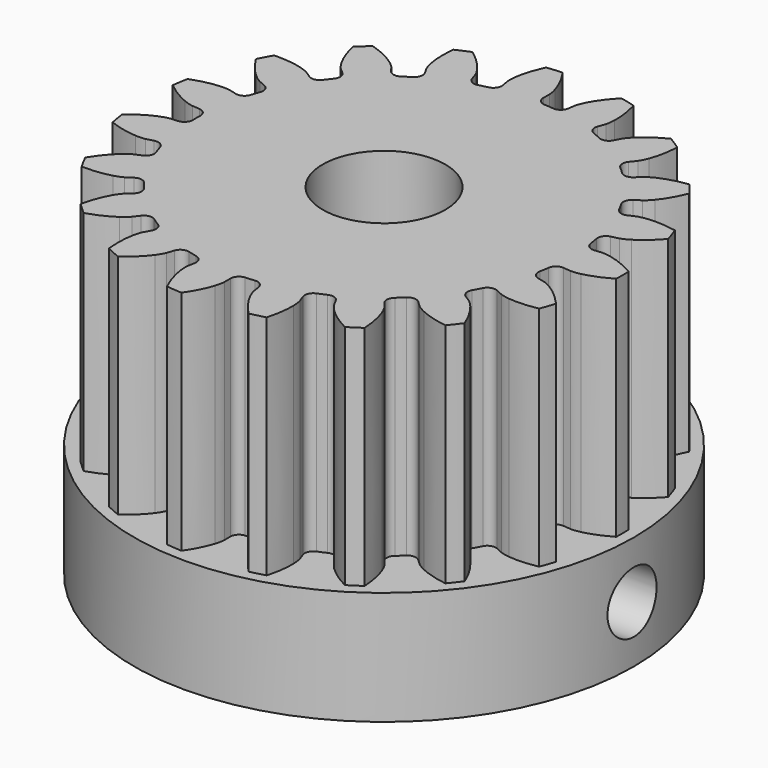
from build123d import *

# Parameters (mm, degrees)
PAD_DEPTH            = 10
SKETCH_R             = 11
PAD001_DEPTH         = 5
SKETCH001_R          = 2.7
POCKET_DEPTH         = 5.001
POCKET_DEPTH_BACK    = 10.001
SKETCH002_R          = 1.35
POCKET001_DEPTH      = 11.001
POCKET001_DEPTH_BACK = 11.001
POCKET002_DEPTH      = 2.2
POCKET003_DEPTH      = 2.2


with BuildPart() as part:
    # InvoluteGear → Pad (new body)
    with BuildSketch(Plane.XY):
        with BuildLine():
            Line((8.575854, -0.83948), (8.902263, -0.870675))
            add(Edge.make_bspline(
                [(8.902263, -0.870675), (8.948723, -0.872301), (9.088539, -0.871419), (9.321927, -0.820597)],
                knots=[0, 0, 0, 0, 1, 1, 1, 1], degree=3))
            add(Edge.make_bspline(
                [(9.321927, -0.820597), (9.601005, -0.758847), (10.002268, -0.626259), (10.495483, -0.343795)],
                knots=[0, 0, 0, 0, 1, 1, 1, 1], degree=3))
            ThreePointArc((10.495483, -0.343795), (10.501113, 0), (10.495483, 0.343795))
            add(Edge.make_bspline(
                [(10.495483, 0.343795), (10.002268, 0.626259), (9.601005, 0.758847), (9.321927, 0.820597)],
                knots=[0, 0, 0, 0, 1, 1, 1, 1], degree=3))
            add(Edge.make_bspline(
                [(9.321927, 0.820597), (9.088539, 0.871419), (8.948723, 0.872301), (8.902263, 0.870675)],
                knots=[0, 0, 0, 0, 1, 1, 1, 1], degree=3))
            Line((8.902263, 0.870675), (8.575854, 0.83948))
            ThreePointArc((8.575854, 0.83948), (8.30774, 0.917746), (8.168093, 1.159634))
            ThreePointArc((8.168093, 1.159634), (8.137481, 1.357905), (8.102056, 1.555373))
            ThreePointArc((8.102056, 1.555373), (8.155595, 1.829499), (8.383769, 1.990581))
            Line((8.383769, 1.990581), (8.702622, 2.067061))
            add(Edge.make_bspline(
                [(8.702622, 2.067061), (8.747092, 2.080609), (8.879046, 2.12684), (9.083287, 2.25069)],
                knots=[0, 0, 0, 0, 1, 1, 1, 1], degree=3))
            add(Edge.make_bspline(
                [(9.083287, 2.25069), (9.327193, 2.39971), (9.663664, 2.655405), (10.038439, 3.08271)],
                knots=[0, 0, 0, 0, 1, 1, 1, 1], degree=3))
            ThreePointArc((10.038439, 3.08271), (9.932134, 3.409706), (9.815179, 3.733045))
            add(Edge.make_bspline(
                [(9.815179, 3.733045), (9.256972, 3.840058), (8.834398, 3.835172), (8.550392, 3.80296)],
                knots=[0, 0, 0, 0, 1, 1, 1, 1], degree=3))
            add(Edge.make_bspline(
                [(8.550392, 3.80296), (8.313147, 3.775247), (8.180621, 3.730683), (8.137206, 3.71406)],
                knots=[0, 0, 0, 0, 1, 1, 1, 1], degree=3))
            Line((8.137206, 3.71406), (7.838612, 3.57857))
            ThreePointArc((7.838612, 3.57857), (7.559612, 3.565539), (7.348991, 3.748978))
            ThreePointArc((7.348991, 3.748978), (7.255658, 3.926566), (7.158035, 4.101832))
            ThreePointArc((7.158035, 4.101832), (7.119665, 4.378489), (7.283173, 4.604931))
            Line((7.283173, 4.604931), (7.559916, 4.780798))
            add(Edge.make_bspline(
                [(7.559916, 4.780798), (7.597578, 4.808052), (7.707371, 4.894624), (7.860332, 5.07808)],
                knots=[0, 0, 0, 0, 1, 1, 1, 1], degree=3))
            add(Edge.make_bspline(
                [(7.860332, 5.07808), (8.042635, 5.298222), (8.277851, 5.649314), (8.493574, 6.175156)],
                knots=[0, 0, 0, 0, 1, 1, 1, 1], degree=3))
            ThreePointArc((8.493574, 6.175156), (8.286854, 6.449917), (8.071248, 6.717762))
            add(Edge.make_bspline(
                [(8.071248, 6.717762), (7.508539, 6.637727), (7.110448, 6.495896), (6.852289, 6.373213)],
                knots=[0, 0, 0, 0, 1, 1, 1, 1], degree=3))
            add(Edge.make_bspline(
                [(6.852289, 6.373213), (6.636898, 6.269968), (6.526022, 6.184788), (6.490357, 6.154968)],
                knots=[0, 0, 0, 0, 1, 1, 1, 1], degree=3))
            Line((6.490357, 6.154968), (6.251935, 5.929866))
            ThreePointArc((6.251935, 5.929866), (5.992283, 5.82695), (5.733511, 5.932061))
            ThreePointArc((5.733511, 5.932061), (5.587573, 6.069722), (5.438331, 6.203794))
            ThreePointArc((5.438331, 6.203794), (5.312209, 6.453002), (5.393332, 6.720266))
            Line((5.393332, 6.720266), (5.597976, 6.976462))
            add(Edge.make_bspline(
                [(5.597976, 6.976462), (5.624749, 7.014468), (5.700483, 7.131999), (5.785588, 7.355181)],
                knots=[0, 0, 0, 0, 1, 1, 1, 1], degree=3))
            add(Edge.make_bspline(
                [(5.785588, 7.355181), (5.886533, 7.622589), (5.995005, 8.031033), (6.028299, 8.598429)],
                knots=[0, 0, 0, 0, 1, 1, 1, 1], degree=3))
            ThreePointArc((6.028299, 8.598429), (5.743564, 8.79118), (5.452671, 8.974505))
            add(Edge.make_bspline(
                [(5.452671, 8.974505), (4.946439, 8.716095), (4.61597, 8.452689), (4.411634, 8.252829)],
                knots=[0, 0, 0, 0, 1, 1, 1, 1], degree=3))
            add(Edge.make_bspline(
                [(4.411634, 8.252829), (4.241437, 8.085241), (4.164227, 7.968674), (4.140176, 7.92889)],
                knots=[0, 0, 0, 0, 1, 1, 1, 1], degree=3))
            Line((4.140176, 7.92889), (3.987763, 7.638569))
            ThreePointArc((3.987763, 7.638569), (3.775597, 7.456921), (3.496717, 7.472314))
            ThreePointArc((3.496717, 7.472314), (3.313987, 7.55513), (3.129298, 7.633478))
            ThreePointArc((3.129298, 7.633478), (2.929093, 7.828232), (2.91904, 8.107355))
            Line((2.91904, 8.107355), (3.029409, 8.416118))
            add(Edge.make_bspline(
                [(3.029409, 8.416118), (3.04239, 8.460758), (3.075858, 8.596511), (3.083885, 8.835234)],
                knots=[0, 0, 0, 0, 1, 1, 1, 1], degree=3))
            add(Edge.make_bspline(
                [(3.083885, 8.835234), (3.092534, 9.12093), (3.062507, 9.542464), (2.909764, 10.089927)],
                knots=[0, 0, 0, 0, 1, 1, 1, 1], degree=3))
            ThreePointArc((2.909764, 10.089927), (2.577871, 10.179782), (2.243214, 10.258721))
            add(Edge.make_bspline(
                [(2.243214, 10.258721), (1.848316, 9.849939), (1.62128, 9.493502), (1.49291, 9.238124)],
                knots=[0, 0, 0, 0, 1, 1, 1, 1], degree=3))
            add(Edge.make_bspline(
                [(1.49291, 9.238124), (1.38635, 9.024353), (1.351173, 8.889032), (1.341344, 8.843594)],
                knots=[0, 0, 0, 0, 1, 1, 1, 1], degree=3))
            Line((1.341344, 8.843594), (1.291456, 8.519515))
            ThreePointArc((1.291456, 8.519515), (1.149766, 8.278818), (0.880998, 8.202825))
            ThreePointArc((0.880998, 8.202825), (0.68128, 8.221822), (0.481158, 8.235957))
            ThreePointArc((0.481158, 8.235957), (0.228564, 8.355151), (0.128424, 8.615887))
            Line((0.128424, 8.615887), (0.132558, 8.943757))
            add(Edge.make_bspline(
                [(0.132558, 8.943757), (0.130342, 8.990193), (0.117917, 9.129458), (0.047996, 9.357853)],
                knots=[0, 0, 0, 0, 1, 1, 1, 1], degree=3))
            add(Edge.make_bspline(
                [(0.047996, 9.357853), (-0.036589, 9.630877), (-0.201861, 10.019822), (-0.524089, 10.488026)],
                knots=[0, 0, 0, 0, 1, 1, 1, 1], degree=3))
            ThreePointArc((-0.524089, 10.488026), (-0.867175, 10.465246), (-1.209331, 10.431245))
            add(Edge.make_bspline(
                [(-1.209331, 10.431245), (-1.450101, 9.91639), (-1.5491, 9.505547), (-1.587593, 9.222324)],
                knots=[0, 0, 0, 0, 1, 1, 1, 1], degree=3))
            add(Edge.make_bspline(
                [(-1.587593, 9.222324), (-1.618968, 8.985536), (-1.608301, 8.846125), (-1.602844, 8.799957)],
                knots=[0, 0, 0, 0, 1, 1, 1, 1], degree=3))
            Line((-1.602844, 8.799957), (-1.544801, 8.47724))
            ThreePointArc((-1.544801, 8.47724), (-1.600659, 8.203578), (-1.830189, 8.044433))
            ThreePointArc((-1.830189, 8.044433), (-2.025255, 7.997552), (-2.219123, 7.945942))
            ThreePointArc((-2.219123, 7.945942), (-2.496734, 7.976661), (-2.676108, 8.190754))
            Line((-2.676108, 8.190754), (-2.778657, 8.502201))
            add(Edge.make_bspline(
                [(-2.778657, 8.502201), (-2.795831, 8.545401), (-2.852802, 8.673087), (-2.993094, 8.866403)],
                knots=[0, 0, 0, 0, 1, 1, 1, 1], degree=3))
            add(Edge.make_bspline(
                [(-2.993094, 8.866403), (-3.161747, 9.097169), (-3.444354, 9.411376), (-3.901149, 9.749584)],
                knots=[0, 0, 0, 0, 1, 1, 1, 1], degree=3))
            ThreePointArc((-3.901149, 9.749584), (-4.218249, 9.616639), (-4.530826, 9.473383))
            add(Edge.make_bspline(
                [(-4.530826, 9.473383), (-4.591377, 8.908245), (-4.551612, 8.487518), (-4.496057, 8.207142)],
                knots=[0, 0, 0, 0, 1, 1, 1, 1], degree=3))
            add(Edge.make_bspline(
                [(-4.496057, 8.207142), (-4.448847, 7.972996), (-4.393491, 7.844603), (-4.373339, 7.802709)],
                knots=[0, 0, 0, 0, 1, 1, 1, 1], degree=3))
            Line((-4.373339, 7.802709), (-4.213654, 7.516323))
            ThreePointArc((-4.213654, 7.516323), (-4.177628, 7.239352), (-4.343048, 7.014302))
            ThreePointArc((-4.343048, 7.014302), (-4.512322, 6.906623), (-4.678928, 6.794861))
            ThreePointArc((-4.678928, 6.794861), (-4.951471, 6.733775), (-5.190643, 6.878025))
            Line((-5.190643, 6.878025), (-5.388762, 7.1393))
            add(Edge.make_bspline(
                [(-5.388762, 7.1393), (-5.419033, 7.174583), (-5.514376, 7.276852), (-5.709836, 7.41414)],
                knots=[0, 0, 0, 0, 1, 1, 1, 1], degree=3))
            add(Edge.make_bspline(
                [(-5.709836, 7.41414), (-5.944281, 7.577642), (-6.313598, 7.783062), (-6.855459, 7.954624)],
                knots=[0, 0, 0, 0, 1, 1, 1, 1], degree=3))
            ThreePointArc((-6.855459, 7.954624), (-7.11221, 7.72592), (-7.361336, 7.488932))
            add(Edge.make_bspline(
                [(-7.361336, 7.488932), (-7.235106, 6.934754), (-7.060886, 6.549735), (-6.917303, 6.302589)],
                knots=[0, 0, 0, 0, 1, 1, 1, 1], degree=3))
            add(Edge.make_bspline(
                [(-6.917303, 6.302589), (-6.796624, 6.096459), (-6.702578, 5.992996), (-6.669915, 5.959916)],
                knots=[0, 0, 0, 0, 1, 1, 1, 1], degree=3))
            Line((-6.669915, 5.959916), (-6.425893, 5.740897))
            ThreePointArc((-6.425893, 5.740897), (-6.301887, 5.49063), (-6.38527, 5.224063))
            ThreePointArc((-6.38527, 5.224063), (-6.510409, 5.067255), (-6.631699, 4.907451))
            ThreePointArc((-6.631699, 4.907451), (-6.86964, 4.761181), (-7.14269, 4.819956))
            Line((-7.14269, 4.819956), (-7.414911, 5.002745))
            add(Edge.make_bspline(
                [(-7.414911, 5.002745), (-7.454998, 5.026287), (-7.578382, 5.092057), (-7.807829, 5.158441)],
                knots=[0, 0, 0, 0, 1, 1, 1, 1], degree=3))
            add(Edge.make_bspline(
                [(-7.807829, 5.158441), (-8.08266, 5.23696), (-8.498666, 5.311332), (-9.066873, 5.297657)],
                knots=[0, 0, 0, 0, 1, 1, 1, 1], degree=3))
            ThreePointArc((-9.066873, 5.297657), (-9.235453, 4.997977), (-9.39413, 4.692939))
            add(Edge.make_bspline(
                [(-9.39413, 4.692939), (-9.094799, 4.209775), (-8.805003, 3.902187), (-8.588952, 3.715053)],
                knots=[0, 0, 0, 0, 1, 1, 1, 1], degree=3))
            add(Edge.make_bspline(
                [(-8.588952, 3.715053), (-8.407881, 3.559276), (-8.285337, 3.491956), (-8.243702, 3.471273)],
                knots=[0, 0, 0, 0, 1, 1, 1, 1], degree=3))
            Line((-8.243702, 3.471273), (-7.941787, 3.343355))
            ThreePointArc((-7.941787, 3.343355), (-7.743238, 3.146913), (-7.735549, 2.867715))
            ThreePointArc((-7.735549, 2.867715), (-7.802992, 2.678771), (-7.865822, 2.488242))
            ThreePointArc((-7.865822, 2.488242), (-8.043377, 2.272638), (-8.320717, 2.239569))
            Line((-8.320717, 2.239569), (-8.637539, 2.324065))
            add(Edge.make_bspline(
                [(-8.637539, 2.324065), (-8.683098, 2.333315), (-8.821152, 2.355459), (-9.059722, 2.343744)],
                knots=[0, 0, 0, 0, 1, 1, 1, 1], degree=3))
            add(Edge.make_bspline(
                [(-9.059722, 2.343744), (-9.345157, 2.328771), (-9.762772, 2.264037), (-10.295752, 2.066606)],
                knots=[0, 0, 0, 0, 1, 1, 1, 1], degree=3))
            ThreePointArc((-10.295752, 2.066606), (-10.357892, 1.728426), (-10.408925, 1.388393))
            add(Edge.make_bspline(
                [(-10.408925, 1.388393), (-9.968929, 1.028602), (-9.594962, 0.831776), (-9.329854, 0.724933)],
                knots=[0, 0, 0, 0, 1, 1, 1, 1], degree=3))
            add(Edge.make_bspline(
                [(-9.329854, 0.724933), (-9.108014, 0.63639), (-8.97025, 0.612508), (-8.924156, 0.606464)],
                knots=[0, 0, 0, 0, 1, 1, 1, 1], degree=3))
            Line((-8.924156, 0.606464), (-8.597064, 0.583509))
            ThreePointArc((-8.597064, 0.583509), (-8.345489, 0.46218), (-8.247561, 0.200605))
            ThreePointArc((-8.247561, 0.200605), (-8.25, 0), (-8.247561, -0.200605))
            ThreePointArc((-8.247561, -0.200605), (-8.345489, -0.46218), (-8.597064, -0.583509))
            Line((-8.597064, -0.583509), (-8.924156, -0.606464))
            add(Edge.make_bspline(
                [(-8.924156, -0.606464), (-8.97025, -0.612508), (-9.108014, -0.63639), (-9.329854, -0.724933)],
                knots=[0, 0, 0, 0, 1, 1, 1, 1], degree=3))
            add(Edge.make_bspline(
                [(-9.329854, -0.724933), (-9.594962, -0.831776), (-9.968929, -1.028602), (-10.408925, -1.388393)],
                knots=[0, 0, 0, 0, 1, 1, 1, 1], degree=3))
            ThreePointArc((-10.408925, -1.388393), (-10.357892, -1.728426), (-10.295752, -2.066606))
            add(Edge.make_bspline(
                [(-10.295752, -2.066606), (-9.762772, -2.264037), (-9.345157, -2.328771), (-9.059722, -2.343744)],
                knots=[0, 0, 0, 0, 1, 1, 1, 1], degree=3))
            add(Edge.make_bspline(
                [(-9.059722, -2.343744), (-8.821152, -2.355459), (-8.683098, -2.333315), (-8.637539, -2.324065)],
                knots=[0, 0, 0, 0, 1, 1, 1, 1], degree=3))
            Line((-8.637539, -2.324065), (-8.320717, -2.239569))
            ThreePointArc((-8.320717, -2.239569), (-8.043377, -2.272638), (-7.865822, -2.488242))
            ThreePointArc((-7.865822, -2.488242), (-7.802992, -2.678771), (-7.735549, -2.867715))
            ThreePointArc((-7.735549, -2.867715), (-7.743238, -3.146913), (-7.941787, -3.343355))
            Line((-7.941787, -3.343355), (-8.243702, -3.471273))
            add(Edge.make_bspline(
                [(-8.243702, -3.471273), (-8.285337, -3.491956), (-8.407881, -3.559276), (-8.588952, -3.715053)],
                knots=[0, 0, 0, 0, 1, 1, 1, 1], degree=3))
            add(Edge.make_bspline(
                [(-8.588952, -3.715053), (-8.805003, -3.902187), (-9.094799, -4.209775), (-9.39413, -4.692939)],
                knots=[0, 0, 0, 0, 1, 1, 1, 1], degree=3))
            ThreePointArc((-9.39413, -4.692939), (-9.235453, -4.997977), (-9.066873, -5.297657))
            add(Edge.make_bspline(
                [(-9.066873, -5.297657), (-8.498666, -5.311332), (-8.08266, -5.23696), (-7.807829, -5.158441)],
                knots=[0, 0, 0, 0, 1, 1, 1, 1], degree=3))
            add(Edge.make_bspline(
                [(-7.807829, -5.158441), (-7.578382, -5.092057), (-7.454998, -5.026287), (-7.414911, -5.002745)],
                knots=[0, 0, 0, 0, 1, 1, 1, 1], degree=3))
            Line((-7.414911, -5.002745), (-7.14269, -4.819956))
            ThreePointArc((-7.14269, -4.819956), (-6.86964, -4.761181), (-6.631699, -4.907451))
            ThreePointArc((-6.631699, -4.907451), (-6.510409, -5.067255), (-6.38527, -5.224063))
            ThreePointArc((-6.38527, -5.224063), (-6.301887, -5.49063), (-6.425893, -5.740897))
            Line((-6.425893, -5.740897), (-6.669915, -5.959916))
            add(Edge.make_bspline(
                [(-6.669915, -5.959916), (-6.702578, -5.992996), (-6.796624, -6.096459), (-6.917303, -6.302589)],
                knots=[0, 0, 0, 0, 1, 1, 1, 1], degree=3))
            add(Edge.make_bspline(
                [(-6.917303, -6.302589), (-7.060886, -6.549735), (-7.235106, -6.934754), (-7.361336, -7.488932)],
                knots=[0, 0, 0, 0, 1, 1, 1, 1], degree=3))
            ThreePointArc((-7.361336, -7.488932), (-7.11221, -7.72592), (-6.855459, -7.954624))
            add(Edge.make_bspline(
                [(-6.855459, -7.954624), (-6.313598, -7.783062), (-5.944281, -7.577642), (-5.709836, -7.41414)],
                knots=[0, 0, 0, 0, 1, 1, 1, 1], degree=3))
            add(Edge.make_bspline(
                [(-5.709836, -7.41414), (-5.514376, -7.276852), (-5.419033, -7.174583), (-5.388762, -7.1393)],
                knots=[0, 0, 0, 0, 1, 1, 1, 1], degree=3))
            Line((-5.388762, -7.1393), (-5.190643, -6.878025))
            ThreePointArc((-5.190643, -6.878025), (-4.951471, -6.733775), (-4.678928, -6.794861))
            ThreePointArc((-4.678928, -6.794861), (-4.512322, -6.906623), (-4.343048, -7.014302))
            ThreePointArc((-4.343048, -7.014302), (-4.177628, -7.239352), (-4.213654, -7.516323))
            Line((-4.213654, -7.516323), (-4.373339, -7.802709))
            add(Edge.make_bspline(
                [(-4.373339, -7.802709), (-4.393491, -7.844603), (-4.448847, -7.972996), (-4.496057, -8.207142)],
                knots=[0, 0, 0, 0, 1, 1, 1, 1], degree=3))
            add(Edge.make_bspline(
                [(-4.496057, -8.207142), (-4.551612, -8.487518), (-4.591377, -8.908245), (-4.530826, -9.473383)],
                knots=[0, 0, 0, 0, 1, 1, 1, 1], degree=3))
            ThreePointArc((-4.530826, -9.473383), (-4.218249, -9.616639), (-3.901149, -9.749584))
            add(Edge.make_bspline(
                [(-3.901149, -9.749584), (-3.444354, -9.411376), (-3.161747, -9.097169), (-2.993094, -8.866403)],
                knots=[0, 0, 0, 0, 1, 1, 1, 1], degree=3))
            add(Edge.make_bspline(
                [(-2.993094, -8.866403), (-2.852802, -8.673087), (-2.795831, -8.545401), (-2.778657, -8.502201)],
                knots=[0, 0, 0, 0, 1, 1, 1, 1], degree=3))
            Line((-2.778657, -8.502201), (-2.676108, -8.190754))
            ThreePointArc((-2.676108, -8.190754), (-2.496734, -7.976661), (-2.219123, -7.945942))
            ThreePointArc((-2.219123, -7.945942), (-2.025255, -7.997552), (-1.830189, -8.044433))
            ThreePointArc((-1.830189, -8.044433), (-1.600659, -8.203578), (-1.544801, -8.47724))
            Line((-1.544801, -8.47724), (-1.602844, -8.799957))
            add(Edge.make_bspline(
                [(-1.602844, -8.799957), (-1.608301, -8.846125), (-1.618968, -8.985536), (-1.587593, -9.222324)],
                knots=[0, 0, 0, 0, 1, 1, 1, 1], degree=3))
            add(Edge.make_bspline(
                [(-1.587593, -9.222324), (-1.5491, -9.505547), (-1.450101, -9.91639), (-1.209331, -10.431245)],
                knots=[0, 0, 0, 0, 1, 1, 1, 1], degree=3))
            ThreePointArc((-1.209331, -10.431245), (-0.867175, -10.465246), (-0.524089, -10.488026))
            add(Edge.make_bspline(
                [(-0.524089, -10.488026), (-0.201861, -10.019822), (-0.036589, -9.630877), (0.047996, -9.357853)],
                knots=[0, 0, 0, 0, 1, 1, 1, 1], degree=3))
            add(Edge.make_bspline(
                [(0.047996, -9.357853), (0.117917, -9.129458), (0.130342, -8.990193), (0.132558, -8.943757)],
                knots=[0, 0, 0, 0, 1, 1, 1, 1], degree=3))
            Line((0.132558, -8.943757), (0.128424, -8.615887))
            ThreePointArc((0.128424, -8.615887), (0.228564, -8.355151), (0.481158, -8.235957))
            ThreePointArc((0.481158, -8.235957), (0.68128, -8.221822), (0.880998, -8.202825))
            ThreePointArc((0.880998, -8.202825), (1.149766, -8.278818), (1.291456, -8.519515))
            Line((1.291456, -8.519515), (1.341344, -8.843594))
            add(Edge.make_bspline(
                [(1.341344, -8.843594), (1.351173, -8.889032), (1.38635, -9.024353), (1.49291, -9.238124)],
                knots=[0, 0, 0, 0, 1, 1, 1, 1], degree=3))
            add(Edge.make_bspline(
                [(1.49291, -9.238124), (1.62128, -9.493502), (1.848316, -9.849939), (2.243214, -10.258721)],
                knots=[0, 0, 0, 0, 1, 1, 1, 1], degree=3))
            ThreePointArc((2.243214, -10.258721), (2.577871, -10.179782), (2.909764, -10.089927))
            add(Edge.make_bspline(
                [(2.909764, -10.089927), (3.062507, -9.542464), (3.092534, -9.12093), (3.083885, -8.835234)],
                knots=[0, 0, 0, 0, 1, 1, 1, 1], degree=3))
            add(Edge.make_bspline(
                [(3.083885, -8.835234), (3.075858, -8.596511), (3.04239, -8.460758), (3.029409, -8.416118)],
                knots=[0, 0, 0, 0, 1, 1, 1, 1], degree=3))
            Line((3.029409, -8.416118), (2.91904, -8.107355))
            ThreePointArc((2.91904, -8.107355), (2.929093, -7.828232), (3.129298, -7.633478))
            ThreePointArc((3.129298, -7.633478), (3.313987, -7.55513), (3.496717, -7.472314))
            ThreePointArc((3.496717, -7.472314), (3.775597, -7.456921), (3.987763, -7.638569))
            Line((3.987763, -7.638569), (4.140176, -7.92889))
            add(Edge.make_bspline(
                [(4.140176, -7.92889), (4.164227, -7.968674), (4.241437, -8.085241), (4.411634, -8.252829)],
                knots=[0, 0, 0, 0, 1, 1, 1, 1], degree=3))
            add(Edge.make_bspline(
                [(4.411634, -8.252829), (4.61597, -8.452689), (4.946439, -8.716095), (5.452671, -8.974505)],
                knots=[0, 0, 0, 0, 1, 1, 1, 1], degree=3))
            ThreePointArc((5.452671, -8.974505), (5.743564, -8.79118), (6.028299, -8.598429))
            add(Edge.make_bspline(
                [(6.028299, -8.598429), (5.995005, -8.031033), (5.886533, -7.622589), (5.785588, -7.355181)],
                knots=[0, 0, 0, 0, 1, 1, 1, 1], degree=3))
            add(Edge.make_bspline(
                [(5.785588, -7.355181), (5.700483, -7.131999), (5.624749, -7.014468), (5.597976, -6.976462)],
                knots=[0, 0, 0, 0, 1, 1, 1, 1], degree=3))
            Line((5.597976, -6.976462), (5.393332, -6.720266))
            ThreePointArc((5.393332, -6.720266), (5.312209, -6.453002), (5.438331, -6.203794))
            ThreePointArc((5.438331, -6.203794), (5.587573, -6.069722), (5.733511, -5.932061))
            ThreePointArc((5.733511, -5.932061), (5.992283, -5.82695), (6.251935, -5.929866))
            Line((6.251935, -5.929866), (6.490357, -6.154968))
            add(Edge.make_bspline(
                [(6.490357, -6.154968), (6.526022, -6.184788), (6.636898, -6.269968), (6.852289, -6.373213)],
                knots=[0, 0, 0, 0, 1, 1, 1, 1], degree=3))
            add(Edge.make_bspline(
                [(6.852289, -6.373213), (7.110448, -6.495896), (7.508539, -6.637727), (8.071248, -6.717762)],
                knots=[0, 0, 0, 0, 1, 1, 1, 1], degree=3))
            ThreePointArc((8.071248, -6.717762), (8.286854, -6.449917), (8.493574, -6.175156))
            add(Edge.make_bspline(
                [(8.493574, -6.175156), (8.277851, -5.649314), (8.042635, -5.298222), (7.860332, -5.07808)],
                knots=[0, 0, 0, 0, 1, 1, 1, 1], degree=3))
            add(Edge.make_bspline(
                [(7.860332, -5.07808), (7.707371, -4.894624), (7.597578, -4.808052), (7.559916, -4.780798)],
                knots=[0, 0, 0, 0, 1, 1, 1, 1], degree=3))
            Line((7.559916, -4.780798), (7.283173, -4.604931))
            ThreePointArc((7.283173, -4.604931), (7.119665, -4.378489), (7.158035, -4.101832))
            ThreePointArc((7.158035, -4.101832), (7.255658, -3.926566), (7.348991, -3.748978))
            ThreePointArc((7.348991, -3.748978), (7.559612, -3.565539), (7.838612, -3.57857))
            Line((7.838612, -3.57857), (8.137206, -3.71406))
            add(Edge.make_bspline(
                [(8.137206, -3.71406), (8.180621, -3.730683), (8.313147, -3.775247), (8.550392, -3.80296)],
                knots=[0, 0, 0, 0, 1, 1, 1, 1], degree=3))
            add(Edge.make_bspline(
                [(8.550392, -3.80296), (8.834398, -3.835172), (9.256972, -3.840058), (9.815179, -3.733045)],
                knots=[0, 0, 0, 0, 1, 1, 1, 1], degree=3))
            ThreePointArc((9.815179, -3.733045), (9.932134, -3.409706), (10.038439, -3.08271))
            add(Edge.make_bspline(
                [(10.038439, -3.08271), (9.663664, -2.655405), (9.327193, -2.39971), (9.083287, -2.25069)],
                knots=[0, 0, 0, 0, 1, 1, 1, 1], degree=3))
            add(Edge.make_bspline(
                [(9.083287, -2.25069), (8.879046, -2.12684), (8.747092, -2.080609), (8.702622, -2.067061)],
                knots=[0, 0, 0, 0, 1, 1, 1, 1], degree=3))
            Line((8.702622, -2.067061), (8.383769, -1.990581))
            ThreePointArc((8.383769, -1.990581), (8.155595, -1.829499), (8.102056, -1.555373))
            ThreePointArc((8.102056, -1.555373), (8.137481, -1.357905), (8.168093, -1.159634))
            ThreePointArc((8.168093, -1.159634), (8.30774, -0.917746), (8.575854, -0.83948))
        make_face()
    extrude(amount=PAD_DEPTH)

    # Sketch → Pad001 (join)
    with BuildSketch(Plane.XY):
        Circle(SKETCH_R)
    extrude(amount=-PAD001_DEPTH)

    # Sketch001 → Pocket (cut, two sides)
    with BuildSketch(Plane.XY) as pocket_sk:
        Circle(SKETCH001_R)
    extrude(amount=-POCKET_DEPTH, mode=Mode.SUBTRACT)
    extrude(pocket_sk.sketch, amount=POCKET_DEPTH_BACK, mode=Mode.SUBTRACT)

    # Sketch002 → Pocket001 (cut, two sides)
    with BuildSketch(Plane.YZ) as pocket001_sk:
        with Locations((0, -2.5)):
            Circle(SKETCH002_R)
    extrude(amount=-POCKET001_DEPTH, mode=Mode.SUBTRACT)
    extrude(pocket001_sk.sketch, amount=POCKET001_DEPTH_BACK, mode=Mode.SUBTRACT)

    # Sketch003 (on DatumPlane) → Pocket002 (cut)
    with BuildSketch(Plane.YZ.offset(5)):
        Polygon((2.6, -4.001111), (2.6, -0.998889), (0, 0.502221), (-2.6, -0.998889), (-2.6, -4.001111), (-2.6, -14.001111), (2.6, -14.001111), align=None)
    extrude(amount=POCKET002_DEPTH, mode=Mode.SUBTRACT)

    # Sketch004 (on DatumPlane) → Pocket003 (cut)
    with BuildSketch(Plane.YZ.offset(-5)):
        Polygon((2.6, -4.001111), (2.6, -0.998889), (0, 0.502221), (-2.6, -0.998889), (-2.6, -4.001111), (-2.6, -14.001111), (2.6, -14.001111), align=None)
    extrude(amount=-POCKET003_DEPTH, mode=Mode.SUBTRACT)


solid = part.part
